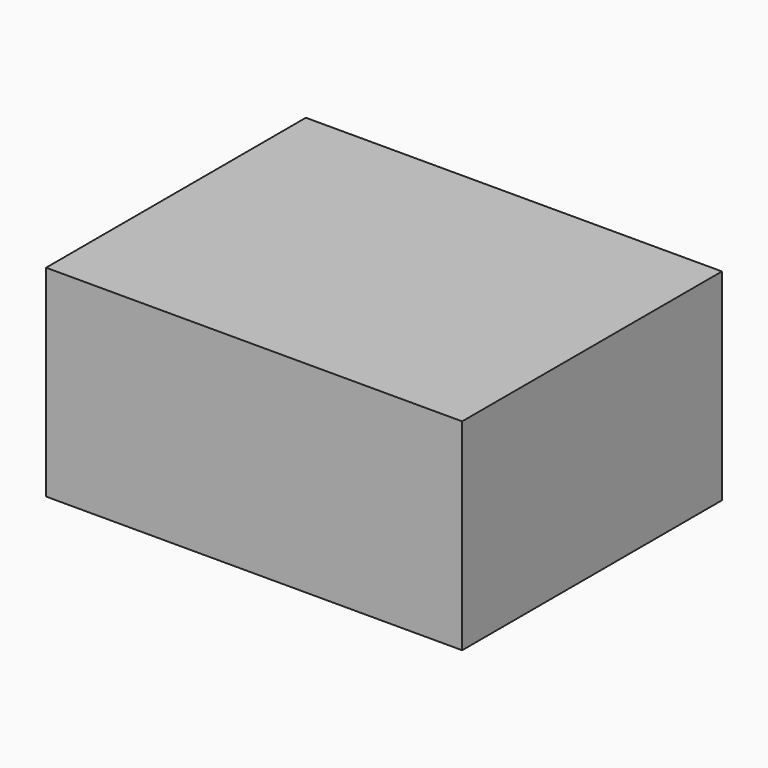
from build123d import *

# Parameters (mm, degrees)
F0_W     = 10.4182213545
F0_H     = 119.1744282842
F0_W_2   = 133.3499960601
F0_W_3   = 8.9368522167
F1_DEPTH = 73.95943


with BuildPart() as f1:
    # F0 (on Top) → F1 (new body)
    with BuildSketch(Plane.XY):
        with Locations((-107.675306499, 1.5182085335)):
            Rectangle(F0_W, F0_H)
        with Locations((-35.7911977917, 1.5182085335)):
            Rectangle(F0_W_2, F0_H)
        with Locations((35.3522263467, 1.5182085335)):
            Rectangle(F0_W_3, F0_H)
    extrude(amount=F1_DEPTH)


solid = f1.part
